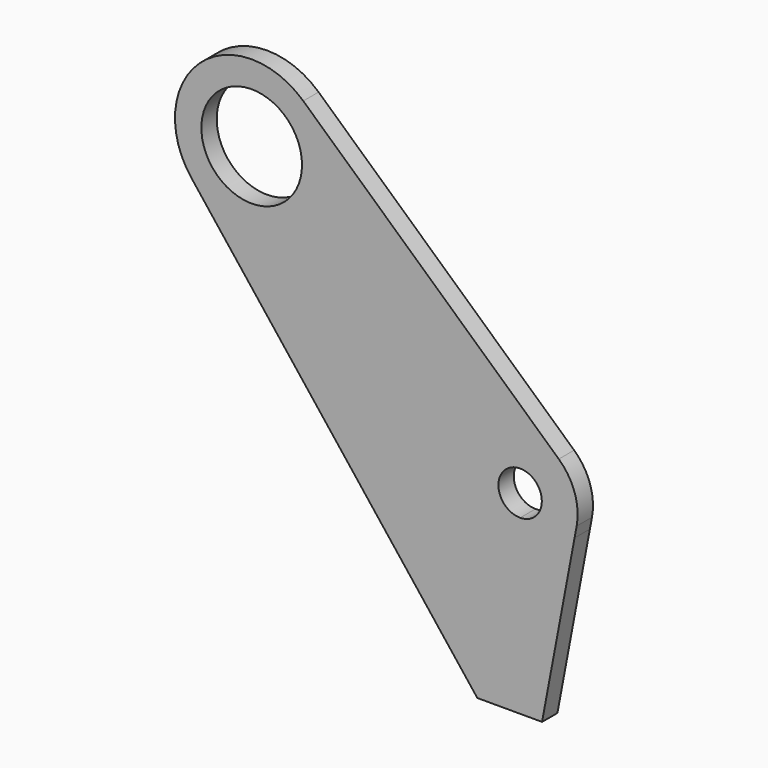
from build123d import *

# Parameters (mm, degrees)
F1_DEPTH = 6.35


with BuildPart() as f1:
    # F0 (on Front) → F1 (new body)
    with BuildSketch(Plane.XZ):
        with BuildLine():
            Line((-19.991688611, 120.856803343), (8.4602804552, 84.5537801941))
            Line((8.4602804552, 84.5537801941), (29.9375966329, 57.15))
            Line((29.9375966329, 57.15), (88.9, 57.15))
            Line((88.9, 57.15), (106.9311095469, 57.15))
            Line((106.9311095469, 57.15), (107.6208689669, 60.8123575297))
            ThreePointArc((107.6208689669, 60.8123575297), (106.961410093, 70.3952591423), (101.7098910209, 78.4381713487))
            Line((101.7098910209, 78.4381713487), (17.0798546945, 155.3249617983))
            ThreePointArc((17.0798546945, 155.3249617983), (-17.2954670655, 155.1267961226), (-19.991688611, 120.856803343))
        make_face()
        with BuildLine():
            ThreePointArc((96.0882, 64.3382), (93.9828249645, 59.2553750355), (88.9, 57.15))
            ThreePointArc((88.9, 57.15), (83.8171750355, 69.4210249645), (96.0882, 64.3382))
        make_face(mode=Mode.SUBTRACT)
        with BuildLine():
            ThreePointArc((0, 119.85625), (-11.7865861589, 148.3115861589), (16.66875, 136.525))
            ThreePointArc((16.66875, 136.525), (11.7865861589, 124.7384138411), (0, 119.85625))
        make_face(mode=Mode.SUBTRACT)
        Polygon((88.9, 57.15), (29.9375966329, 57.15), (69.751361526, 6.35), (82.55, 6.35), (96.1676189452, 0), (106.9311095469, 57.15), align=None)
        Polygon((82.55, 6.35), (69.751361526, 6.35), (74.7280821376, 0), (96.1676189452, 0), align=None)
    extrude(amount=-F1_DEPTH)


solid = f1.part
